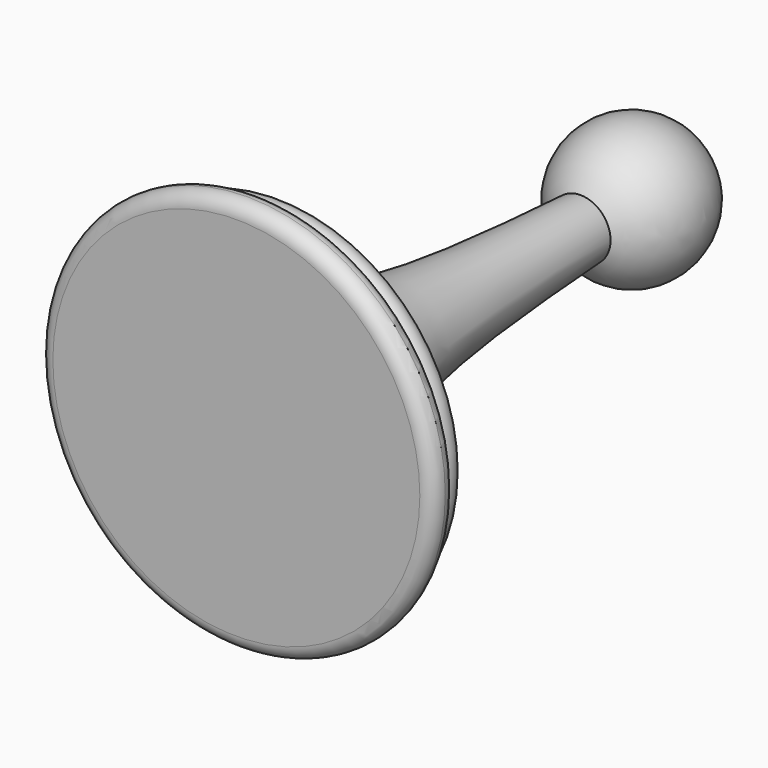
from build123d import *


with BuildPart() as f1:
    # F0 (on Top) → F1 (revolve)
    with BuildSketch(Plane.XY):
        with BuildLine():
            Line((0, 7.5), (0, 0))
            Line((0, 0), (13, 0))
            ThreePointArc((13, 0), (12, 1), (13, 2))
            Line((13, 2), (12, 2))
            Line((12, 2), (12, 3))
            Line((12, 3), (12, 4))
            add(Edge.make_bspline(
                [(12, 4), (9.7712113884, 4.6342501124), (7.5424227768, 5.2685002249), (6, 7.5)],
                knots=[0, 0, 0, 0, 0.3531715555, 0.3531715555, 0.3531715555, 0.3531715555], degree=3))
            Line((6, 7.5), (0, 7.5))
        make_face()
        with BuildLine():
            Line((12, 3), (12, 2))
            ThreePointArc((12, 2), (13, 3), (12, 4))
            Line((12, 4), (12, 3))
        make_face()
        with BuildLine():
            Line((13, 1), (13, 0))
            ThreePointArc((13, 0), (13.7071067812, 0.2928932188), (14, 1))
            ThreePointArc((14, 1), (13.7071067812, 1.7071067812), (13, 2))
            Line((13, 2), (13, 1))
        make_face()
        with BuildLine():
            ThreePointArc((13, 2), (12, 1), (13, 0))
            Line((13, 0), (13, 1))
            Line((13, 1), (13, 2))
        make_face()
        with BuildLine():
            Line((0, 15), (0, 7.5))
            Line((0, 7.5), (6, 7.5))
            add(Edge.make_bspline(
                [(6, 7.5), (3.1750756535, 11.5869586076), (2.6524541044, 21.0316319788), (2.1298325553, 30.47630535)],
                knots=[0.3531715555, 0.3531715555, 0.3531715555, 0.3531715555, 1, 1, 1, 1], degree=3))
            ThreePointArc((2.1298325553, 30.47630535), (4.879470937, 36.0912210477), (0, 40))
            Line((0, 40), (0, 35))
            Line((0, 35), (0, 15))
        make_face()
    revolve(axis=Axis((0, 25, 0), (0, 1, 0)))


solid = f1.part
